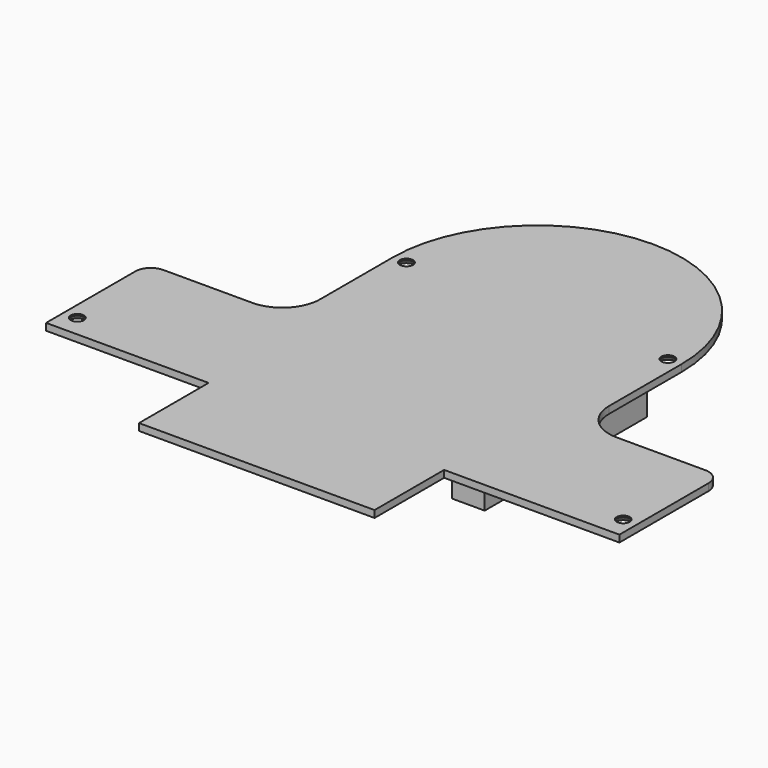
from build123d import *

# Parameters (mm, degrees)
F0_R           = 2.2
F0_W           = 3
F0_H           = 34
F0_R_2         = 1.2
F1_DEPTH       = 1.27
F2_D           = 2.4
F2_CSINK_D     = 4.4
F2_CSINK_ANGLE = 90
F3_DEPTH       = 6.2
F5_W           = 34
F5_H           = 3
F6_DEPTH       = 3
F4_W           = 34
F4_H           = 3
F7_DEPTH       = 3


with BuildPart() as f1:
    # F0 (on Top) → F1 (new body)
    with BuildSketch(Plane.XY):
        with BuildLine():
            Line((-22.6304123436, -30.6505662125), (-22.6304123436, -46.5069715967))
            Line((-22.6304123436, -46.5069715967), (20.3084139398, -46.5069715967))
            Line((20.3084139398, -46.5069715967), (20.3084139398, -30.6505662125))
            Line((20.3084139398, -30.6505662125), (52.2557814969, -30.6505662125))
            Line((52.2557814969, -30.6505662125), (52.2557814969, -10.3231005183))
            ThreePointArc((52.2557814969, -10.3231005183), (51.4252585036, -8.3180406439), (49.4201986292, -7.4875176505))
            Line((49.4201986292, -7.4875176505), (33.2168278796, -7.4875176505))
            ThreePointArc((33.2168278796, -7.4875176505), (28.347396756, -5.4705332381), (26.3304123436, -0.6011021145))
            Line((26.3304123436, -0.6011021145), (26.3304123436, 15.9340094723))
            ThreePointArc((26.3304123436, 15.9340094723), (0, 42.2644218159), (-26.3304123436, 15.9340094723))
            Line((-26.3304123436, 15.9340094723), (-26.3304123436, -0.6011021145))
            ThreePointArc((-26.3304123436, -0.6011021145), (-28.347396756, -5.4705332381), (-33.2168278796, -7.4875176505))
            Line((-33.2168278796, -7.4875176505), (-49.4201986292, -7.4875176505))
            ThreePointArc((-49.4201986292, -7.4875176505), (-51.4252585036, -8.3180406439), (-52.2557814969, -10.3231005183))
            Line((-52.2557814969, -10.3231005183), (-52.2557814969, -30.6505662125))
            Line((-52.2557814969, -30.6505662125), (-22.6304123436, -30.6505662125))
        make_face()
        with Locations((-49.7557814969, -26.6505662125)):
            Circle(F0_R, mode=Mode.SUBTRACT)
        with Locations((49.7557814969, -26.6505662125)):
            Circle(F0_R, mode=Mode.SUBTRACT)
        Polygon((20.7, 8.3494337875), (-20.7, 8.3494337875), (-20.7, -25.6505662125), (-23.7, -25.6505662125), (-23.7, 8.3494337875), (-23.7, 11.3494337875), (23.7, 11.3494337875), (23.7, 8.3494337875), (23.7, -25.6505662125), (20.7, -25.6505662125), align=None, mode=Mode.SUBTRACT)
        with Locations((-23.8304123436, 15.9340094723)):
            Circle(F0_R, mode=Mode.SUBTRACT)
        with Locations((23.8304123436, 15.9340094723)):
            Circle(F0_R, mode=Mode.SUBTRACT)
        Polygon((-23.7, 8.3494337875), (-20.7, 8.3494337875), (20.7, 8.3494337875), (23.7, 8.3494337875), (23.7, 11.3494337875), (-23.7, 11.3494337875), align=None)
        with Locations((-22.2, -8.6505662125)):
            Rectangle(F0_W, F0_H)
        with Locations((22.2, -8.6505662125)):
            Rectangle(F0_W, F0_H)
        with Locations((-23.8304123436, 15.9340094723)):
            Circle(F0_R)
        with Locations((-23.8304123436, 15.9340094723)):
            Circle(F0_R_2, mode=Mode.SUBTRACT)
        with Locations((23.8304123436, 15.9340094723)):
            Circle(F0_R)
        with Locations((23.8304123436, 15.9340094723)):
            Circle(F0_R_2, mode=Mode.SUBTRACT)
        with Locations((49.7557814969, -26.6505662125)):
            Circle(F0_R)
        with Locations((49.7557814969, -26.6505662125)):
            Circle(F0_R_2, mode=Mode.SUBTRACT)
        with Locations((-49.7557814969, -26.6505662125)):
            Circle(F0_R)
        with Locations((-49.7557814969, -26.6505662125)):
            Circle(F0_R_2, mode=Mode.SUBTRACT)
        with Locations((-49.7557814969, -26.6505662125)):
            Circle(F0_R_2)
        with Locations((-23.8304123436, 15.9340094723)):
            Circle(F0_R_2)
        with Locations((23.8304123436, 15.9340094723)):
            Circle(F0_R_2)
        with Locations((49.7557814969, -26.6505662125)):
            Circle(F0_R_2)
    extrude(amount=F1_DEPTH)

    # F2 (through all)
    with Locations(Plane(origin=(0, 0, 0), x_dir=(1, 0, 0), z_dir=(0, 0, -1))):
        with Locations((-49.7557814969, 26.6505662125), (49.7557814969, 26.6505662125), (-23.8304123436, -15.9340094723), (23.8304123436, -15.9340094723)):
            CounterSinkHole(F2_D / 2, F2_CSINK_D / 2, counter_sink_angle=F2_CSINK_ANGLE)

    # F0 (on Top) → F3 (join)
    with BuildSketch(Plane.XY):
        with Locations((-22.2, -8.6505662125)):
            Rectangle(F0_W, F0_H)
        Polygon((-23.7, 8.3494337875), (-20.7, 8.3494337875), (20.7, 8.3494337875), (23.7, 8.3494337875), (23.7, 11.3494337875), (-23.7, 11.3494337875), align=None)
        with Locations((22.2, -8.6505662125)):
            Rectangle(F0_W, F0_H)
    extrude(amount=-F3_DEPTH)

    # F5 (on face) → F6 (join)
    with BuildSketch(Plane(origin=(20.7, 0, 0), x_dir=(0, -1, 0), z_dir=(-1, 0, 0))):
        with Locations((8.6505662125, -4.7)):
            Rectangle(F5_W, F5_H)
    extrude(amount=F6_DEPTH)

    # F4 (on face) → F7 (join)
    with BuildSketch(Plane.YZ.offset(-20.7)):
        with Locations((-8.6505662125, -4.7)):
            Rectangle(F4_W, F4_H)
    extrude(amount=F7_DEPTH)


solid = f1.part
